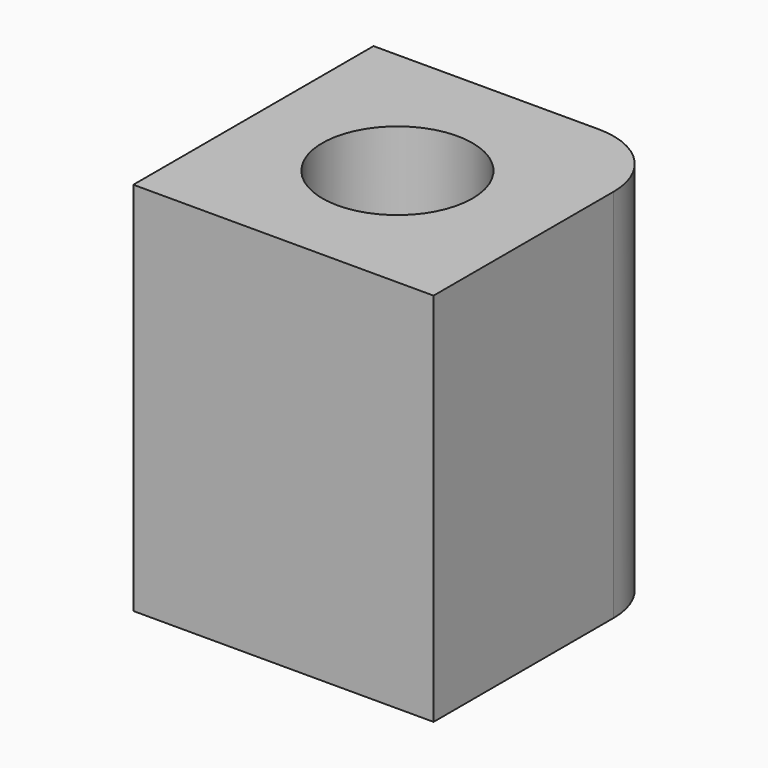
from build123d import *

# Parameters (mm, degrees)
F0_R     = 5
F1_DEPTH = 25


with BuildPart() as f1:
    # F0 (on Top) → F1 (new body)
    with BuildSketch(Plane.XY):
        with BuildLine():
            Line((5.25788, 10.188084), (-9.74212, 10.188084))
            Line((-9.74212, 10.188084), (-9.74212, -9.811916))
            Line((-9.74212, -9.811916), (10.25788, -9.811916))
            Line((10.25788, -9.811916), (10.25788, 5.188084))
            ThreePointArc((10.25788, 5.188084), (8.793414, 8.723617), (5.25788, 10.188084))
        make_face()
        Circle(F0_R, mode=Mode.SUBTRACT)
    extrude(amount=F1_DEPTH)


solid = f1.part
